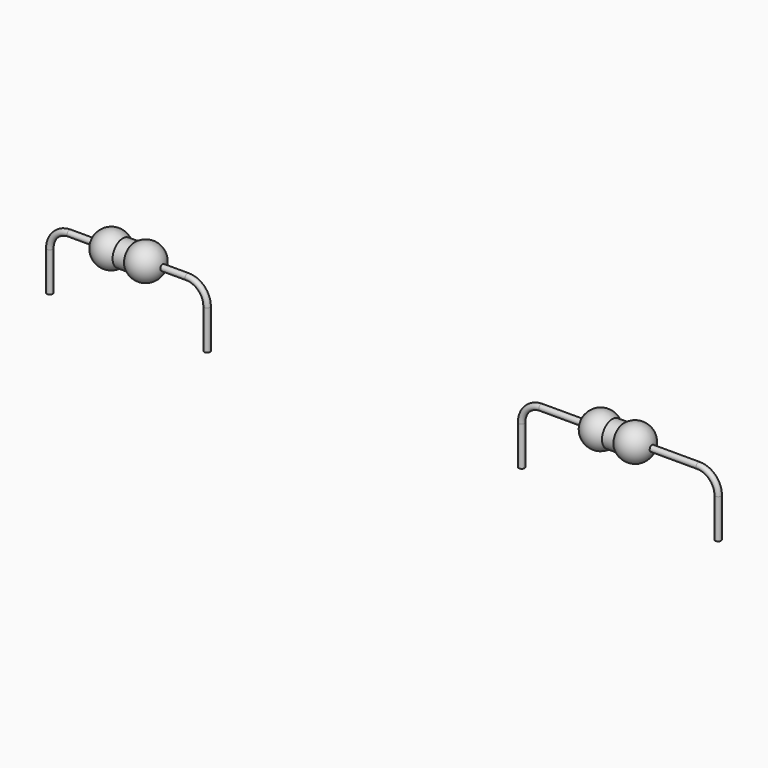
from build123d import *

# Parameters (mm, degrees)
F3_R = 0.15
F7_R = 0.15


with BuildPart() as f1:
    # F0 (on Front) → F1 (revolve)
    with BuildSketch(Plane.XZ):
        with BuildLine():
            ThreePointArc((-0.2892312743, 0.65), (-1.2307227607, 0.7994287445), (-1.75, 0))
            Line((-1.75, 0), (-0.875, 0))
            Line((-0.875, 0), (-0.875, 0.65))
            Line((-0.875, 0.65), (-0.2892312743, 0.65))
        make_face()
        with BuildLine():
            Line((-0.875, 0), (0, 0))
            ThreePointArc((0, 0), (-0.0755712555, 0.3557227607), (-0.2892312743, 0.65))
            Line((-0.2892312743, 0.65), (-0.875, 0.65))
            Line((-0.875, 0.65), (-0.875, 0))
        make_face()
        with BuildLine():
            ThreePointArc((-0.2892312743, 0.65), (-0.0755712555, 0.3557227607), (0, 0))
            ThreePointArc((0, 0), (0.0755712555, 0.3557227607), (0.2892312743, 0.65))
            Line((0.2892312743, 0.65), (-0.2892312743, 0.65))
        make_face()
        with BuildLine():
            Line((0, 0), (0.875, 0))
            Line((0.875, 0), (0.875, 0.65))
            Line((0.875, 0.65), (0.2892312743, 0.65))
            ThreePointArc((0.2892312743, 0.65), (0.0755712555, 0.3557227607), (0, 0))
        make_face()
        with BuildLine():
            Line((0.875, 0.65), (0.875, 0))
            Line((0.875, 0), (1.75, 0))
            ThreePointArc((1.75, 0), (1.2307227607, 0.7994287445), (0.2892312743, 0.65))
            Line((0.2892312743, 0.65), (0.875, 0.65))
        make_face()
    revolve(axis=Axis((0, 0, 0), (1, 0, 0)))


with BuildPart() as f4:
    # F4: sweep along a path in F2
    with BuildLine(Plane.XZ) as f4_path:
        Line((4, -3), (4, -1))
        ThreePointArc((4, -1), (3.7071067812, -0.2928932188), (3, 0))
        Line((3, 0), (0, 0))
        Line((0, 0), (-3, 0))
        ThreePointArc((-3, 0), (-3.7071067812, -0.2928932188), (-4, -1))
        Line((-4, -1), (-4, -3))
    # F3 (on Right) → F4 (sweep)
    with BuildSketch(Plane.YZ):
        Circle(F3_R)
    sweep(path=f4_path.line)


with BuildPart() as f8:
    # F8: sweep along a path in F6
    with BuildLine(Plane.XZ) as f8_path:
        Line((25, 0), (21, 0))
        ThreePointArc((21, 0), (20.2928932188, -0.2928932188), (20, -1))
        Line((20, -1), (20, -3))
    # F7 (on offset) → F8 (sweep)
    with BuildSketch(Plane.YZ.offset(25)):
        Circle(F7_R)
    sweep(path=f8_path.line)

    # F9: F8 across face


with BuildPart() as f8_1:
    add(f8.part)
    add(f8.part.mirror(Plane.YZ.offset(25)))


with BuildPart() as f10_1:
    # F10: copy of F1
    add(f1.part.moved(Location((24.9, 0, 0))))


solid = Compound([f1.part, f4.part, f8_1.part, f10_1.part])
